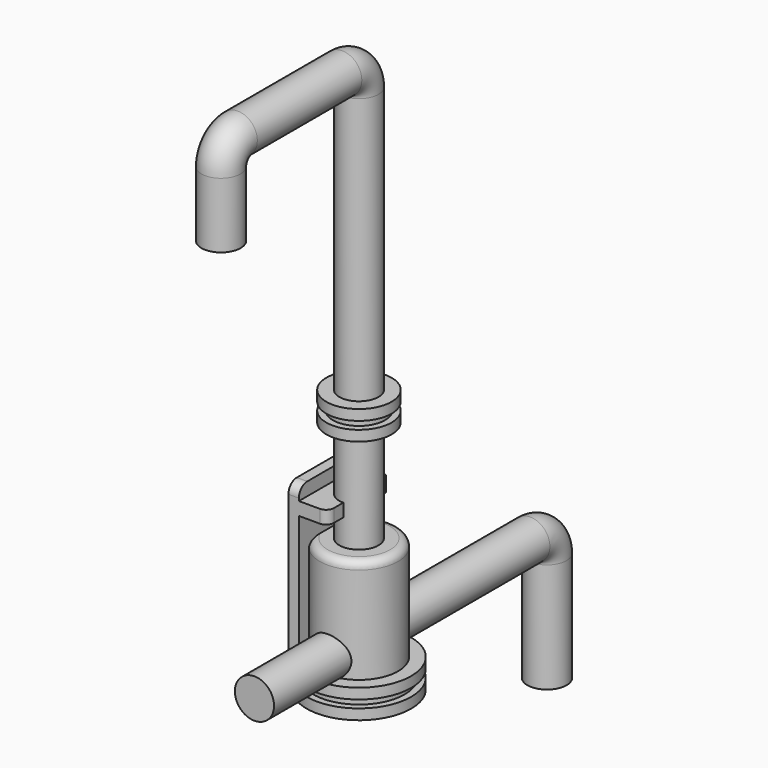
from build123d import *

# Parameters (mm, degrees)
F1_R      = 0.75
F3_R      = 1.5
F3_R_2    = 0.75
F4_DEPTH  = 4
F6_DEPTH  = 6
F7_R      = 0.4
F8_R      = 2
F9_DEPTH  = 0.4
F10_R     = 1.75
F11_DEPTH = 0.3
F12_R     = 2
F12_R_2   = 1.75
F13_DEPTH = 0.4
F14_W     = 3
F14_H     = 0.5
F15_DEPTH = 1.5
F16_R     = 0.3
F18_R     = 1.25
F18_R_2   = 0.75
F19_DEPTH = 0.4
F20_R     = 1
F20_R_2   = 0.75
F21_DEPTH = 0.3
F22_R     = 1.25
F22_R_2   = 1
F22_R_3   = 0.75
F23_DEPTH = 0.4
F24_R     = 0.3
F27_R     = 0.75


with BuildPart() as f2:
    # F2: sweep along a path in F0
    with BuildLine(Plane.YZ) as f2_path:
        Line((0, 0), (0, 2.5))
        ThreePointArc((0, 2.5), (0.2343145751, 3.0656854249), (0.8, 3.3))
        Line((0.8, 3.3), (5.8, 3.3))
        ThreePointArc((5.8, 3.3), (6.3656854249, 3.0656854249), (6.6, 2.5))
        Line((6.6, 2.5), (6.6, -16.7))
    # F1 (on Top) → F2 (sweep)
    with BuildSketch(Plane.XY):
        Circle(F1_R)
    sweep(path=f2_path.line)

    # F3 (on face) → F4 (join)
    with BuildSketch(Plane(origin=(0, 0, -16.7), x_dir=(1, 0, 0), z_dir=(0, 0, -1))):
        with Locations((0, -6.6)):
            Circle(F3_R)
        with Locations((0, -6.6)):
            Circle(F3_R_2, mode=Mode.SUBTRACT)
    extrude(amount=-F4_DEPTH)

    # F5 (on face) → F6 (join)
    with BuildSketch(Plane(origin=(0, 0, -16.7), x_dir=(1, 0, 0), z_dir=(0, 0, -1))):
        with BuildLine():
            ThreePointArc((-1.1, -7.6198039027), (-1.3964240044, -7.1477225575), (-1.5, -6.6))
            Line((-1.5, -6.6), (-1.5, -8.1))
            Line((-1.5, -8.1), (-1.1, -8.1))
            Line((-1.1, -8.1), (-1.1, -7.6198039027))
        make_face()
        with BuildLine():
            Line((-1.5, -5.1), (-1.5, -6.6))
            ThreePointArc((-1.5, -6.6), (-1.3964240044, -6.0522774425), (-1.1, -5.5801960973))
            Line((-1.1, -5.5801960973), (-1.1, -5.1))
            Line((-1.1, -5.1), (-1.5, -5.1))
        make_face()
        with BuildLine():
            ThreePointArc((-1.1, -5.5801960973), (-1.3964240044, -6.0522774425), (-1.5, -6.6))
            ThreePointArc((-1.5, -6.6), (-1.3964240044, -7.1477225575), (-1.1, -7.6198039027))
            Line((-1.1, -7.6198039027), (-1.1, -5.5801960973))
        make_face()
    extrude(amount=-F6_DEPTH)

    # F7
    f7_edges = [f2.edges().sort_by_distance(p)[0] for p in [
        (-1.3, 8.1, -10.7),
        (-1.3, 5.1, -10.7),
        (-1.3, 8.1, -16.7),
        (-1.3, 5.1, -16.7),
    ]]
    fillet(f7_edges, radius=F7_R)

    # F8 (on face) → F9 (join)
    with BuildSketch(Plane(origin=(0, 0, -16.7), x_dir=(1, 0, 0), z_dir=(0, 0, -1))):
        with Locations((0, -6.6)):
            Circle(F8_R)
        with BuildLine():
            Line((-1.1, -5.5), (-1.1, -5.5801960973))
            ThreePointArc((-1.1, -5.5801960973), (1.5, -6.6), (-1.1, -7.6198039027))
            Line((-1.1, -7.6198039027), (-1.1, -7.7))
            Line((-1.1, -7.7), (-1.5, -7.7))
            Line((-1.5, -7.7), (-1.5, -6.6))
            Line((-1.5, -6.6), (-1.5, -5.5))
            Line((-1.5, -5.5), (-1.1, -5.5))
        make_face(mode=Mode.SUBTRACT)
        with BuildLine():
            ThreePointArc((-1.1, -7.6198039027), (1.5, -6.6), (-1.1, -5.5801960973))
            Line((-1.1, -5.5801960973), (-1.1, -5.5))
            Line((-1.1, -5.5), (-1.5, -5.5))
            Line((-1.5, -5.5), (-1.5, -6.6))
            Line((-1.5, -6.6), (-1.5, -7.7))
            Line((-1.5, -7.7), (-1.1, -7.7))
            Line((-1.1, -7.7), (-1.1, -7.6198039027))
        make_face()
    extrude(amount=F9_DEPTH)

    # F10 (on face) → F11 (join)
    with BuildSketch(Plane(origin=(0, 0, -17.1), x_dir=(1, 0, 0), z_dir=(0, 0, -1))):
        with Locations((0, -6.6)):
            Circle(F10_R)
    extrude(amount=F11_DEPTH)

    # F12 (on face) → F13 (join)
    with BuildSketch(Plane(origin=(0, 0, -17.4), x_dir=(1, 0, 0), z_dir=(0, 0, -1))):
        with Locations((0, -6.6)):
            Circle(F12_R)
        with Locations((0, -6.6)):
            Circle(F12_R_2, mode=Mode.SUBTRACT)
        with Locations((0, -6.6)):
            Circle(F12_R_2)
    extrude(amount=F13_DEPTH)

    # F14 (on face) → F15 (join, through all)
    with BuildSketch(Plane(origin=(-1.5, 0, 0), x_dir=(0, -1, 0), z_dir=(-1, 0, 0))):
        with Locations((-6.6, -11.45)):
            Rectangle(F14_W, F14_H)
    extrude(amount=-F15_DEPTH)

    # F16
    f16_edges = [f2.edges().sort_by_distance(p)[0] for p in [
        (0, 8.1, -11.45),
        (0, 5.1, -11.45),
    ]]
    fillet(f16_edges, radius=F16_R)

    # F18 (on offset) → F19 (join)
    with BuildSketch(Plane(origin=(0, 0, -8.8), x_dir=(1, 0, 0), z_dir=(0, 0, -1))):
        with Locations((0, -6.6)):
            Circle(F18_R)
        with Locations((0, -6.6)):
            Circle(F18_R_2, mode=Mode.SUBTRACT)
    extrude(amount=-F19_DEPTH)

    # F20 (on face) → F21 (join)
    with BuildSketch(Plane.XY.offset(-8.4)):
        with Locations((0, 6.6)):
            Circle(F20_R)
        with Locations((0, 6.6)):
            Circle(F20_R_2, mode=Mode.SUBTRACT)
    extrude(amount=F21_DEPTH)

    # F22 (on face) → F23 (join)
    with BuildSketch(Plane.XY.offset(-8.1)):
        with Locations((0, 6.6)):
            Circle(F22_R)
        with Locations((0, 6.6)):
            Circle(F22_R_2, mode=Mode.SUBTRACT)
        with Locations((0, 6.6)):
            Circle(F22_R_2)
        with Locations((0, 6.6)):
            Circle(F22_R_3, mode=Mode.SUBTRACT)
    extrude(amount=F23_DEPTH)

    # F24
    f24_edges = [f2.edges().sort_by_distance(p)[0] for p in [
        (1.5, 6.6, -12.7),
    ]]
    fillet(f24_edges, radius=F24_R)

    # F29: sweep along a path in F28
    with BuildLine(Plane.YZ) as f29_path:
        Line((1.6, -16.0744767636), (6.6, -16.0744767636))
        Line((6.6, -16.0744767636), (14.8, -16.0744767636))
        ThreePointArc((14.8, -16.0744767636), (15.3656854249, -16.3087913387), (15.6, -16.8744767636))
        Line((15.6, -16.8744767636), (15.6, -21.0744767636))
    # F27 (on plane+point) → F29 (sweep)
    with BuildSketch(Plane.XZ.offset(-6.6)):
        with Locations((0, -16.0744767636)):
            Circle(F27_R)
    sweep(path=f29_path.line)


solid = f2.part
